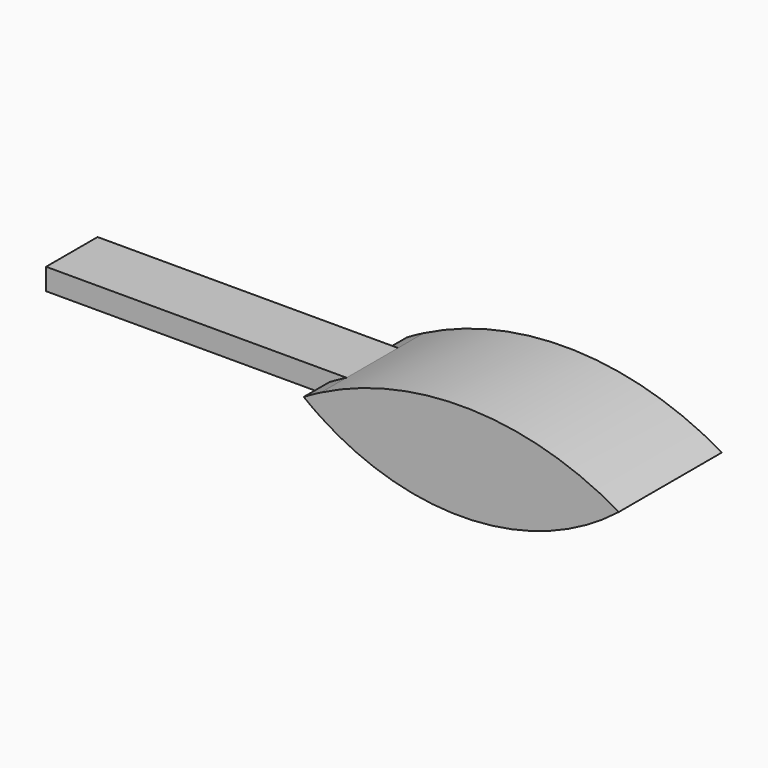
from build123d import *

# Parameters (mm, degrees)
F1_DEPTH = 12.7
F2_DEPTH = 6.35


with BuildPart() as f1:
    # F0 (on Front) → F1 (new body, symmetric)
    with BuildSketch(Plane.XZ):
        with BuildLine():
            ThreePointArc((-6.7687, 20.243496), (23.072752, 12.032943), (52.054703, 22.894429))
            ThreePointArc((52.054703, 22.894429), (22.847112, 31.187553), (-6.7687, 24.497039))
            ThreePointArc((-6.7687, 24.497039), (-8.459565, 23.601319), (-10.121748, 22.653433))
            ThreePointArc((-10.121748, 22.653433), (-8.470025, 21.413957), (-6.7687, 20.243496))
        make_face()
    extrude(amount=F1_DEPTH, both=True)

    # F0 (on Front) → F2 (join, symmetric)
    with BuildSketch(Plane.XZ):
        with BuildLine():
            ThreePointArc((-10.121748, 22.653433), (-8.459565, 23.601319), (-6.7687, 24.497039))
            Line((-6.7687, 24.497039), (-66.03235, 24.497039))
            Line((-66.03235, 24.497039), (-66.03235, 20.243496))
            Line((-66.03235, 20.243496), (-6.7687, 20.243496))
            ThreePointArc((-6.7687, 20.243496), (-8.470025, 21.413957), (-10.121748, 22.653433))
        make_face()
    extrude(amount=F2_DEPTH, both=True)


solid = f1.part
